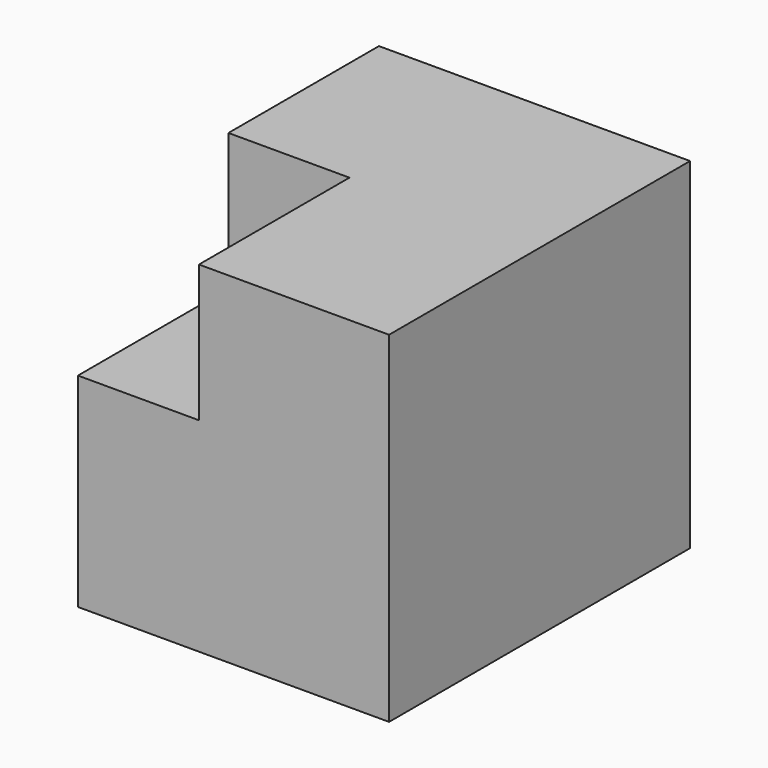
from build123d import *

# Parameters (mm, degrees)
F0_W     = 14.5125519484
F0_H     = 18.9045108855
F0_W_2   = 1.3366825879
F0_H_2   = 1.1457279325
F1_DEPTH = 50.8
F2_DEPTH = 50.8
F3_W     = 16.3383670151
F3_H     = 18.5120366514
F3_W_2   = 1.3366825879
F3_H_2   = 1.1457279325
F4_DEPTH = 25.4


with BuildPart() as f1:
    # F0 (on Front) → F1 (new body)
    with BuildSketch(Plane.XZ):
        Polygon((-42.0100241899, 0), (0, 0), (0, 46.0200719535), (-27.4974722415, 46.0200719535), (-27.4974722415, 27.1155610681), (-42.0100241899, 27.1155610681), align=None)
        with Locations((-34.7537482157, 36.5678165108)):
            Rectangle(F0_W, F0_H)
        with Locations((-32.7487234026, 29.5979715884)):
            Rectangle(F0_W_2, F0_H_2, mode=Mode.SUBTRACT)
    extrude(amount=F1_DEPTH)

    # F0 (on Front) → F2 (join)
    with BuildSketch(Plane.XZ):
        Polygon((-42.0100241899, 0), (0, 0), (0, 46.0200719535), (-27.4974722415, 46.0200719535), (-27.4974722415, 27.1155610681), (-42.0100241899, 27.1155610681), align=None)
        with Locations((-34.7537482157, 36.5678165108)):
            Rectangle(F0_W, F0_H)
        with Locations((-32.7487234026, 29.5979715884)):
            Rectangle(F0_W_2, F0_H_2, mode=Mode.SUBTRACT)
    extrude(amount=F2_DEPTH)

    # F3 (on face) → F4 (cut)
    with BuildSketch(Plane.XZ.offset(50.8)):
        with Locations((-33.8408406824, 36.7640536278)):
            Rectangle(F3_W, F3_H)
        with Locations((-32.7487234026, 29.5979715884)):
            Rectangle(F3_W_2, F3_H_2, mode=Mode.SUBTRACT)
    extrude(amount=-F4_DEPTH, mode=Mode.SUBTRACT)


solid = f1.part
